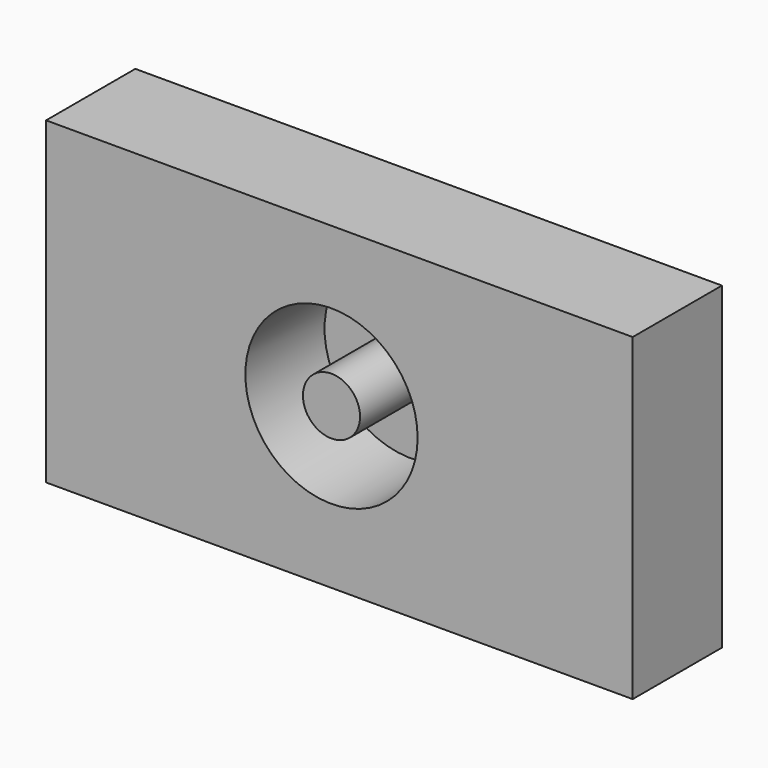
from build123d import *

# Parameters (mm, degrees)
F0_W     = 225.792676
F0_H     = 122.70515
F1_DEPTH = 42.926
F2_R     = 33.151429
F2_R_2   = 10.989111
F3_DEPTH = 38.1


with BuildPart() as f1:
    # F0 (on Front) → F1 (new body)
    with BuildSketch(Plane.XZ):
        with Locations((-18.953398, -0.252323)):
            Rectangle(F0_W, F0_H)
    extrude(amount=F1_DEPTH)

    # F2 (on face) → F3 (cut, symmetric)
    with BuildSketch(Plane.XZ.offset(42.926)):
        with Locations((-21.997467, 0)):
            Circle(F2_R)
        with Locations((-21.997467, 0)):
            Circle(F2_R_2, mode=Mode.SUBTRACT)
    extrude(amount=F3_DEPTH, both=True, mode=Mode.SUBTRACT)


solid = f1.part
